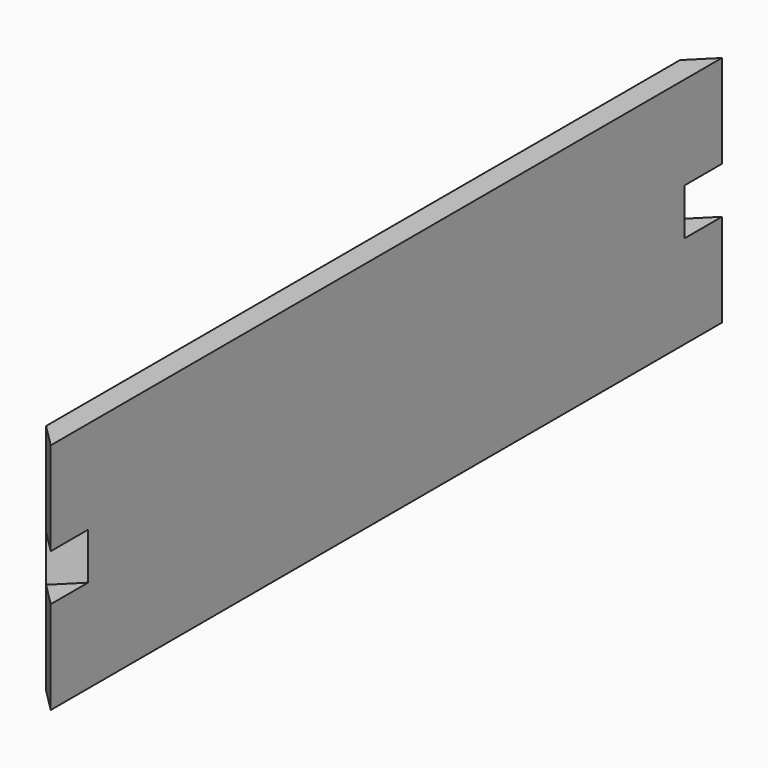
from build123d import *

# Parameters (mm, degrees)
F0_W     = 180
F0_H     = 50
F1_DEPTH = 2.5
F3_DEPTH = 60
F5_DEPTH = 50
F6_W     = 7.071068
F6_H     = 5
F7_DEPTH = 25
F8_W     = 7.071068
F8_H     = 5
F9_DEPTH = 25


with BuildPart() as f1:
    # F0 (on Right) → F1 (new body, symmetric)
    with BuildSketch(Plane.YZ):
        Rectangle(F0_W, F0_H)
    extrude(amount=F1_DEPTH, both=True)

    # F2 (on face) → F3 (cut)
    with BuildSketch(Plane.XY.offset(25)):
        Polygon((-2.5, -85), (-2.5, -90), (2.5, -90), align=None)
    extrude(amount=-F3_DEPTH, mode=Mode.SUBTRACT)

    # F4 (on face) → F5 (cut)
    with BuildSketch(Plane.XY.offset(25)):
        Polygon((2.5, 90), (-2.5, 90), (-2.5, 85), align=None)
    extrude(amount=-F5_DEPTH, mode=Mode.SUBTRACT)

    # F6 (on face) → F7 (cut)
    with BuildSketch(Plane(origin=(-43.75, -43.75, 0), x_dir=(0.707107, -0.707107, 0), z_dir=(-0.707107, -0.707107, 0))):
        with Locations((61.871843, -2.5)):
            Rectangle(F6_W, F6_H)
        with Locations((61.871843, 2.5)):
            Rectangle(F6_W, F6_H)
    extrude(amount=-F7_DEPTH, mode=Mode.SUBTRACT)

    # F8 (on face) → F9 (cut)
    with BuildSketch(Plane(origin=(-43.75, 43.75, 0), x_dir=(-0.707107, -0.707107, 0), z_dir=(-0.707107, 0.707107, 0))):
        with Locations((-61.871843, -2.5)):
            Rectangle(F8_W, F8_H)
        with Locations((-61.871843, 2.5)):
            Rectangle(F8_W, F8_H)
    extrude(amount=-F9_DEPTH, mode=Mode.SUBTRACT)


solid = f1.part
